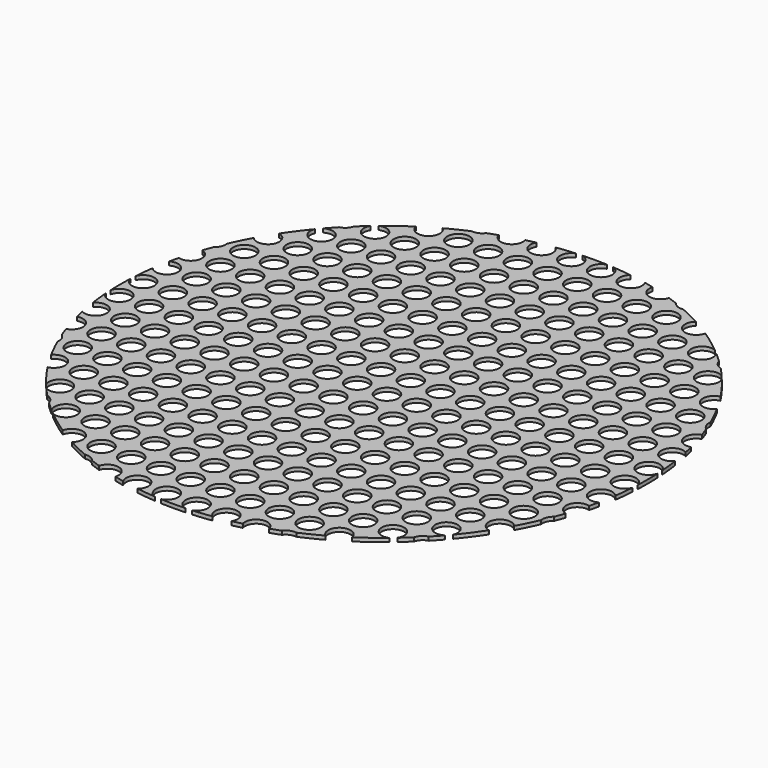
from build123d import *

# Parameters (mm, degrees)
F0_R     = 71
F1_DEPTH = 1
F2_R     = 3
F3_DEPTH = 5


with BuildPart() as f1:
    # F0 (on Top) → F1 (new body)
    with BuildSketch(Plane.XY):
        Circle(F0_R)
    extrude(amount=-F1_DEPTH)

    # F2 (on Top) → F3 (cut)
    with BuildSketch(Plane.XY):
        with BuildLine():
            ThreePointArc((71, 20), (68, 23), (65, 20))
            ThreePointArc((65, 20), (68, 17), (71, 20))
        make_face()
        with BuildLine():
            ThreePointArc((63, 20), (60, 23), (57, 20))
            Line((57, 20), (63, 20))
        make_face()
        with BuildLine():
            Line((63, 20), (57, 20))
            ThreePointArc((57, 20), (60, 17), (63, 20))
        make_face()
        with BuildLine():
            ThreePointArc((55, 20), (52, 23), (49, 20))
            Line((49, 20), (55, 20))
        make_face()
        with BuildLine():
            Line((55, 20), (49, 20))
            ThreePointArc((49, 20), (52, 17), (55, 20))
        make_face()
        with BuildLine():
            ThreePointArc((47, 20), (44, 23), (41, 20))
            Line((41, 20), (47, 20))
        make_face()
        with BuildLine():
            Line((47, 20), (41, 20))
            ThreePointArc((41, 20), (44, 17), (47, 20))
        make_face()
        with BuildLine():
            ThreePointArc((39, 20), (36, 23), (33, 20))
            Line((33, 20), (39, 20))
        make_face()
        with BuildLine():
            Line((39, 20), (33, 20))
            ThreePointArc((33, 20), (36, 17), (39, 20))
        make_face()
        with BuildLine():
            ThreePointArc((31, 20), (28, 23), (25, 20))
            Line((25, 20), (31, 20))
        make_face()
        with BuildLine():
            Line((31, 20), (25, 20))
            ThreePointArc((25, 20), (28, 17), (31, 20))
        make_face()
        with BuildLine():
            ThreePointArc((23, 20), (20, 23), (17, 20))
            Line((17, 20), (23, 20))
        make_face()
        with BuildLine():
            Line((23, 20), (17, 20))
            ThreePointArc((17, 20), (20, 17), (23, 20))
        make_face()
        with BuildLine():
            ThreePointArc((15, 20), (12, 23), (9, 20))
            Line((9, 20), (15, 20))
        make_face()
        with BuildLine():
            Line((15, 20), (9, 20))
            ThreePointArc((9, 20), (12, 17), (15, 20))
        make_face()
        with BuildLine():
            ThreePointArc((7, 20), (4, 23), (1, 20))
            Line((1, 20), (7, 20))
        make_face()
        with BuildLine():
            Line((7, 20), (1, 20))
            ThreePointArc((1, 20), (4, 17), (7, 20))
        make_face()
        with BuildLine():
            ThreePointArc((-1, 20), (-4, 23), (-7, 20))
            Line((-7, 20), (-1, 20))
        make_face()
        with BuildLine():
            Line((-1, 20), (-7, 20))
            ThreePointArc((-7, 20), (-4, 17), (-1, 20))
        make_face()
        with BuildLine():
            ThreePointArc((-9, 20), (-12, 23), (-15, 20))
            Line((-15, 20), (-9, 20))
        make_face()
        with BuildLine():
            Line((-9, 20), (-15, 20))
            ThreePointArc((-15, 20), (-12, 17), (-9, 20))
        make_face()
        with BuildLine():
            ThreePointArc((-17, 20), (-20, 23), (-23, 20))
            Line((-23, 20), (-17, 20))
        make_face()
        with BuildLine():
            Line((-17, 20), (-23, 20))
            ThreePointArc((-23, 20), (-20, 17), (-17, 20))
        make_face()
        with BuildLine():
            ThreePointArc((-25, 20), (-28, 23), (-31, 20))
            Line((-31, 20), (-25, 20))
        make_face()
        with BuildLine():
            Line((-25, 20), (-31, 20))
            ThreePointArc((-31, 20), (-28, 17), (-25, 20))
        make_face()
        with BuildLine():
            ThreePointArc((-33, 20), (-36, 23), (-39, 20))
            Line((-39, 20), (-33, 20))
        make_face()
        with BuildLine():
            Line((-33, 20), (-39, 20))
            ThreePointArc((-39, 20), (-36, 17), (-33, 20))
        make_face()
        with BuildLine():
            ThreePointArc((-41, 20), (-44, 23), (-47, 20))
            Line((-47, 20), (-41, 20))
        make_face()
        with BuildLine():
            Line((-41, 20), (-47, 20))
            ThreePointArc((-47, 20), (-44, 17), (-41, 20))
        make_face()
        with BuildLine():
            ThreePointArc((-49, 20), (-52, 23), (-55, 20))
            Line((-55, 20), (-49, 20))
        make_face()
        with BuildLine():
            Line((-49, 20), (-55, 20))
            ThreePointArc((-55, 20), (-52, 17), (-49, 20))
        make_face()
        with BuildLine():
            ThreePointArc((-57, 20), (-60, 23), (-63, 20))
            Line((-63, 20), (-57, 20))
        make_face()
        with BuildLine():
            Line((-57, 20), (-63, 20))
            ThreePointArc((-63, 20), (-60, 17), (-57, 20))
        make_face()
        with Locations((-68, 20)):
            Circle(F2_R)
        with Locations((-12, 4)):
            Circle(F2_R)
        with Locations((-28, 4)):
            Circle(F2_R)
        with Locations((-20, 4)):
            Circle(F2_R)
        with Locations((-36, 4)):
            Circle(F2_R)
        with Locations((-44, 4)):
            Circle(F2_R)
        with Locations((-52, 4)):
            Circle(F2_R)
        with Locations((-60, 4)):
            Circle(F2_R)
        with Locations((-68, 4)):
            Circle(F2_R)
        with Locations((-4, 4)):
            Circle(F2_R)
        with BuildLine():
            Line((-7, -4), (-1, -4))
            ThreePointArc((-1, -4), (-4, -1), (-7, -4))
        make_face()
        with Locations((-68, -4)):
            Circle(F2_R)
        with BuildLine():
            ThreePointArc((-63, -4), (-60, -7), (-57, -4))
            Line((-57, -4), (-63, -4))
        make_face()
        with BuildLine():
            Line((-63, -4), (-57, -4))
            ThreePointArc((-57, -4), (-60, -1), (-63, -4))
        make_face()
        with BuildLine():
            ThreePointArc((-55, -4), (-52, -7), (-49, -4))
            Line((-49, -4), (-55, -4))
        make_face()
        with BuildLine():
            Line((-55, -4), (-49, -4))
            ThreePointArc((-49, -4), (-52, -1), (-55, -4))
        make_face()
        with BuildLine():
            ThreePointArc((-47, -4), (-44, -7), (-41, -4))
            Line((-41, -4), (-47, -4))
        make_face()
        with BuildLine():
            Line((-47, -4), (-41, -4))
            ThreePointArc((-41, -4), (-44, -1), (-47, -4))
        make_face()
        with BuildLine():
            ThreePointArc((-39, -4), (-36, -7), (-33, -4))
            Line((-33, -4), (-39, -4))
        make_face()
        with BuildLine():
            Line((-39, -4), (-33, -4))
            ThreePointArc((-33, -4), (-36, -1), (-39, -4))
        make_face()
        with BuildLine():
            ThreePointArc((-31, -4), (-28, -7), (-25, -4))
            Line((-25, -4), (-31, -4))
        make_face()
        with BuildLine():
            Line((-31, -4), (-25, -4))
            ThreePointArc((-25, -4), (-28, -1), (-31, -4))
        make_face()
        with BuildLine():
            ThreePointArc((-23, -4), (-20, -7), (-17, -4))
            Line((-17, -4), (-23, -4))
        make_face()
        with BuildLine():
            Line((-23, -4), (-17, -4))
            ThreePointArc((-17, -4), (-20, -1), (-23, -4))
        make_face()
        with BuildLine():
            ThreePointArc((-15, -4), (-12, -7), (-9, -4))
            Line((-9, -4), (-15, -4))
        make_face()
        with BuildLine():
            Line((-15, -4), (-9, -4))
            ThreePointArc((-9, -4), (-12, -1), (-15, -4))
        make_face()
        with BuildLine():
            ThreePointArc((71, -4), (68, -1), (65, -4))
            ThreePointArc((65, -4), (68, -7), (71, -4))
        make_face()
        with BuildLine():
            ThreePointArc((63, -4), (60, -1), (57, -4))
            Line((57, -4), (63, -4))
        make_face()
        with BuildLine():
            Line((63, -4), (57, -4))
            ThreePointArc((57, -4), (60, -7), (63, -4))
        make_face()
        with BuildLine():
            ThreePointArc((55, -4), (52, -1), (49, -4))
            Line((49, -4), (55, -4))
        make_face()
        with BuildLine():
            Line((55, -4), (49, -4))
            ThreePointArc((49, -4), (52, -7), (55, -4))
        make_face()
        with BuildLine():
            ThreePointArc((47, -4), (44, -1), (41, -4))
            Line((41, -4), (47, -4))
        make_face()
        with BuildLine():
            Line((47, -4), (41, -4))
            ThreePointArc((41, -4), (44, -7), (47, -4))
        make_face()
        with BuildLine():
            ThreePointArc((39, -4), (36, -1), (33, -4))
            Line((33, -4), (39, -4))
        make_face()
        with BuildLine():
            Line((39, -4), (33, -4))
            ThreePointArc((33, -4), (36, -7), (39, -4))
        make_face()
        with BuildLine():
            ThreePointArc((31, -4), (28, -1), (25, -4))
            Line((25, -4), (31, -4))
        make_face()
        with BuildLine():
            Line((31, -4), (25, -4))
            ThreePointArc((25, -4), (28, -7), (31, -4))
        make_face()
        with BuildLine():
            ThreePointArc((23, -4), (20, -1), (17, -4))
            Line((17, -4), (23, -4))
        make_face()
        with BuildLine():
            Line((23, -4), (17, -4))
            ThreePointArc((17, -4), (20, -7), (23, -4))
        make_face()
        with BuildLine():
            ThreePointArc((15, -4), (12, -1), (9, -4))
            Line((9, -4), (15, -4))
        make_face()
        with BuildLine():
            Line((15, -4), (9, -4))
            ThreePointArc((9, -4), (12, -7), (15, -4))
        make_face()
        with BuildLine():
            ThreePointArc((7, -4), (4, -1), (1, -4))
            Line((1, -4), (7, -4))
        make_face()
        with BuildLine():
            Line((7, -4), (1, -4))
            ThreePointArc((1, -4), (4, -7), (7, -4))
        make_face()
        with BuildLine():
            ThreePointArc((-7, -4), (-4, -7), (-1, -4))
            Line((-1, -4), (-7, -4))
        make_face()
        with Locations((-4, 28)):
            Circle(F2_R)
        with Locations((-12, 28)):
            Circle(F2_R)
        with Locations((-20, 28)):
            Circle(F2_R)
        with Locations((-28, 28)):
            Circle(F2_R)
        with Locations((-36, 28)):
            Circle(F2_R)
        with Locations((-44, 28)):
            Circle(F2_R)
        with Locations((-52, 28)):
            Circle(F2_R)
        with Locations((-4, 12)):
            Circle(F2_R)
        with Locations((-12, 12)):
            Circle(F2_R)
        with Locations((-20, 12)):
            Circle(F2_R)
        with Locations((-28, 12)):
            Circle(F2_R)
        with Locations((-36, 12)):
            Circle(F2_R)
        with Locations((-44, 12)):
            Circle(F2_R)
        with Locations((-52, 12)):
            Circle(F2_R)
        with Locations((-60, 12)):
            Circle(F2_R)
        with Locations((-68, 12)):
            Circle(F2_R)
        with Locations((-68, 28)):
            Circle(F2_R)
        with Locations((-60, 28)):
            Circle(F2_R)
        with Locations((-52, 44)):
            Circle(F2_R)
        with Locations((-36, 44)):
            Circle(F2_R)
        with Locations((-52, 36)):
            Circle(F2_R)
        with Locations((-44, 36)):
            Circle(F2_R)
        with Locations((-44, 44)):
            Circle(F2_R)
        with Locations((-28, 44)):
            Circle(F2_R)
        with Locations((-60, 36)):
            Circle(F2_R)
        with Locations((-36, 36)):
            Circle(F2_R)
        with Locations((-28, 36)):
            Circle(F2_R)
        with Locations((-20, 36)):
            Circle(F2_R)
        with Locations((-68, 44)):
            Circle(F2_R)
        with Locations((-4, 36)):
            Circle(F2_R)
        with Locations((-60, 44)):
            Circle(F2_R)
        with Locations((-12, 36)):
            Circle(F2_R)
        with Locations((-4, 44)):
            Circle(F2_R)
        with Locations((-12, 44)):
            Circle(F2_R)
        with Locations((-20, 44)):
            Circle(F2_R)
        with Locations((-68, 36)):
            Circle(F2_R)
        with Locations((-4, 60)):
            Circle(F2_R)
        with Locations((-68, 60)):
            Circle(F2_R)
        with Locations((-52, 60)):
            Circle(F2_R)
        with Locations((-44, 60)):
            Circle(F2_R)
        with Locations((-36, 60)):
            Circle(F2_R)
        with Locations((-20, 60)):
            Circle(F2_R)
        with Locations((-60, 60)):
            Circle(F2_R)
        with Locations((-28, 60)):
            Circle(F2_R)
        with Locations((-12, 60)):
            Circle(F2_R)
        with Locations((-36, 52)):
            Circle(F2_R)
        with Locations((-68, 52)):
            Circle(F2_R)
        with Locations((-44, 68)):
            Circle(F2_R)
        with Locations((-52, 52)):
            Circle(F2_R)
        with Locations((-4, 52)):
            Circle(F2_R)
        with Locations((-12, 68)):
            Circle(F2_R)
        with Locations((-12, 52)):
            Circle(F2_R)
        with Locations((-4, 68)):
            Circle(F2_R)
        with Locations((-60, 52)):
            Circle(F2_R)
        with Locations((-60, 68)):
            Circle(F2_R)
        with Locations((-52, 68)):
            Circle(F2_R)
        with Locations((-28, 52)):
            Circle(F2_R)
        with Locations((-28, 68)):
            Circle(F2_R)
        with Locations((-68, 68)):
            Circle(F2_R)
        with Locations((-36, 68)):
            Circle(F2_R)
        with Locations((-44, 52)):
            Circle(F2_R)
        with Locations((-20, 68)):
            Circle(F2_R)
        with Locations((-20, 52)):
            Circle(F2_R)
        with Locations((52, 44)):
            Circle(F2_R)
        with Locations((44, 28)):
            Circle(F2_R)
        with Locations((68, 28)):
            Circle(F2_R)
        with Locations((52, 28)):
            Circle(F2_R)
        with Locations((68, 60)):
            Circle(F2_R)
        with Locations((36, 28)):
            Circle(F2_R)
        with Locations((4, 60)):
            Circle(F2_R)
        with Locations((60, 28)):
            Circle(F2_R)
        with Locations((36, 60)):
            Circle(F2_R)
        with Locations((28, 28)):
            Circle(F2_R)
        with Locations((52, 60)):
            Circle(F2_R)
        with Locations((12, 60)):
            Circle(F2_R)
        with Locations((4, 28)):
            Circle(F2_R)
        with Locations((60, 60)):
            Circle(F2_R)
        with Locations((44, 60)):
            Circle(F2_R)
        with Locations((12, 28)):
            Circle(F2_R)
        with Locations((28, 60)):
            Circle(F2_R)
        with Locations((20, 28)):
            Circle(F2_R)
        with Locations((20, 60)):
            Circle(F2_R)
        with Locations((52, 52)):
            Circle(F2_R)
        with Locations((36, 68)):
            Circle(F2_R)
        with Locations((68, 12)):
            Circle(F2_R)
        with Locations((36, 36)):
            Circle(F2_R)
        with Locations((68, 36)):
            Circle(F2_R)
        with Locations((44, 68)):
            Circle(F2_R)
        with Locations((68, 68)):
            Circle(F2_R)
        with Locations((60, 36)):
            Circle(F2_R)
        with Locations((68, 52)):
            Circle(F2_R)
        with Locations((44, 52)):
            Circle(F2_R)
        with Locations((4, 52)):
            Circle(F2_R)
        with Locations((60, 4)):
            Circle(F2_R)
        with Locations((4, 44)):
            Circle(F2_R)
        with Locations((44, 36)):
            Circle(F2_R)
        with Locations((36, 12)):
            Circle(F2_R)
        with Locations((60, 68)):
            Circle(F2_R)
        with Locations((52, 12)):
            Circle(F2_R)
        with Locations((4, 4)):
            Circle(F2_R)
        with Locations((28, 52)):
            Circle(F2_R)
        with Locations((12, 44)):
            Circle(F2_R)
        with Locations((20, 68)):
            Circle(F2_R)
        with Locations((28, 44)):
            Circle(F2_R)
        with Locations((12, 36)):
            Circle(F2_R)
        with Locations((52, 4)):
            Circle(F2_R)
        with Locations((28, 68)):
            Circle(F2_R)
        with Locations((4, 68)):
            Circle(F2_R)
        with Locations((36, 4)):
            Circle(F2_R)
        with Locations((12, 12)):
            Circle(F2_R)
        with Locations((52, 36)):
            Circle(F2_R)
        with Locations((60, 52)):
            Circle(F2_R)
        with Locations((4, 36)):
            Circle(F2_R)
        with Locations((28, 12)):
            Circle(F2_R)
        with Locations((28, 36)):
            Circle(F2_R)
        with Locations((44, 12)):
            Circle(F2_R)
        with Locations((20, 52)):
            Circle(F2_R)
        with Locations((60, 44)):
            Circle(F2_R)
        with Locations((20, 4)):
            Circle(F2_R)
        with Locations((36, 44)):
            Circle(F2_R)
        with Locations((44, 44)):
            Circle(F2_R)
        with Locations((68, 4)):
            Circle(F2_R)
        with Locations((20, 44)):
            Circle(F2_R)
        with Locations((4, 12)):
            Circle(F2_R)
        with Locations((68, 44)):
            Circle(F2_R)
        with Locations((12, 4)):
            Circle(F2_R)
        with Locations((28, 4)):
            Circle(F2_R)
        with Locations((60, 12)):
            Circle(F2_R)
        with Locations((36, 52)):
            Circle(F2_R)
        with Locations((52, 68)):
            Circle(F2_R)
        with Locations((20, 12)):
            Circle(F2_R)
        with Locations((20, 36)):
            Circle(F2_R)
        with Locations((44, 4)):
            Circle(F2_R)
        with Locations((12, 52)):
            Circle(F2_R)
        with Locations((12, 68)):
            Circle(F2_R)
        with Locations((-52, -52)):
            Circle(F2_R)
        with Locations((52, -52)):
            Circle(F2_R)
        with Locations((-68, -68)):
            Circle(F2_R)
        with Locations((4, -68)):
            Circle(F2_R)
        with Locations((36, -36)):
            Circle(F2_R)
        with Locations((20, -36)):
            Circle(F2_R)
        with Locations((-28, -36)):
            Circle(F2_R)
        with Locations((-12, -68)):
            Circle(F2_R)
        with Locations((-20, -36)):
            Circle(F2_R)
        with Locations((52, -68)):
            Circle(F2_R)
        with Locations((-20, -68)):
            Circle(F2_R)
        with Locations((-12, -36)):
            Circle(F2_R)
        with Locations((60, -36)):
            Circle(F2_R)
        with Locations((28, -68)):
            Circle(F2_R)
        with Locations((-52, -68)):
            Circle(F2_R)
        with Locations((-44, -36)):
            Circle(F2_R)
        with Locations((36, -68)):
            Circle(F2_R)
        with Locations((-36, -36)):
            Circle(F2_R)
        with Locations((52, -36)):
            Circle(F2_R)
        with Locations((44, -36)):
            Circle(F2_R)
        with Locations((28, -36)):
            Circle(F2_R)
        with Locations((44, -68)):
            Circle(F2_R)
        with Locations((-4, -68)):
            Circle(F2_R)
        with Locations((-4, -36)):
            Circle(F2_R)
        with Locations((-68, -36)):
            Circle(F2_R)
        with Locations((-52, -36)):
            Circle(F2_R)
        with Locations((12, -68)):
            Circle(F2_R)
        with Locations((-60, -36)):
            Circle(F2_R)
        with Locations((-36, -68)):
            Circle(F2_R)
        with Locations((4, -36)):
            Circle(F2_R)
        with Locations((12, -36)):
            Circle(F2_R)
        with Locations((-60, -68)):
            Circle(F2_R)
        with Locations((68, -68)):
            Circle(F2_R)
        with Locations((68, -36)):
            Circle(F2_R)
        with Locations((-44, -68)):
            Circle(F2_R)
        with Locations((-28, -68)):
            Circle(F2_R)
        with Locations((20, -68)):
            Circle(F2_R)
        with Locations((60, -68)):
            Circle(F2_R)
        with BuildLine():
            Line((-55, -20), (-49, -20))
            ThreePointArc((-49, -20), (-52, -17), (-55, -20))
        make_face()
        with Locations((-68, -20)):
            Circle(F2_R)
        with BuildLine():
            ThreePointArc((-63, -20), (-60, -23), (-57, -20))
            Line((-57, -20), (-63, -20))
        make_face()
        with BuildLine():
            Line((-63, -20), (-57, -20))
            ThreePointArc((-57, -20), (-60, -17), (-63, -20))
        make_face()
        with BuildLine():
            ThreePointArc((-55, -20), (-52, -23), (-49, -20))
            Line((-49, -20), (-55, -20))
        make_face()
        with BuildLine():
            ThreePointArc((71, -20), (68, -17), (65, -20))
            ThreePointArc((65, -20), (68, -23), (71, -20))
        make_face()
        with BuildLine():
            ThreePointArc((63, -20), (60, -17), (57, -20))
            Line((57, -20), (63, -20))
        make_face()
        with BuildLine():
            Line((63, -20), (57, -20))
            ThreePointArc((57, -20), (60, -23), (63, -20))
        make_face()
        with BuildLine():
            ThreePointArc((55, -20), (52, -17), (49, -20))
            Line((49, -20), (55, -20))
        make_face()
        with BuildLine():
            Line((55, -20), (49, -20))
            ThreePointArc((49, -20), (52, -23), (55, -20))
        make_face()
        with BuildLine():
            ThreePointArc((47, -20), (44, -17), (41, -20))
            Line((41, -20), (47, -20))
        make_face()
        with BuildLine():
            Line((47, -20), (41, -20))
            ThreePointArc((41, -20), (44, -23), (47, -20))
        make_face()
        with BuildLine():
            ThreePointArc((39, -20), (36, -17), (33, -20))
            Line((33, -20), (39, -20))
        make_face()
        with BuildLine():
            Line((39, -20), (33, -20))
            ThreePointArc((33, -20), (36, -23), (39, -20))
        make_face()
        with BuildLine():
            ThreePointArc((31, -20), (28, -17), (25, -20))
            Line((25, -20), (31, -20))
        make_face()
        with BuildLine():
            Line((31, -20), (25, -20))
            ThreePointArc((25, -20), (28, -23), (31, -20))
        make_face()
        with BuildLine():
            ThreePointArc((23, -20), (20, -17), (17, -20))
            Line((17, -20), (23, -20))
        make_face()
        with BuildLine():
            Line((23, -20), (17, -20))
            ThreePointArc((17, -20), (20, -23), (23, -20))
        make_face()
        with BuildLine():
            ThreePointArc((15, -20), (12, -17), (9, -20))
            Line((9, -20), (15, -20))
        make_face()
        with BuildLine():
            Line((15, -20), (9, -20))
            ThreePointArc((9, -20), (12, -23), (15, -20))
        make_face()
        with BuildLine():
            ThreePointArc((7, -20), (4, -17), (1, -20))
            Line((1, -20), (7, -20))
        make_face()
        with BuildLine():
            Line((7, -20), (1, -20))
            ThreePointArc((1, -20), (4, -23), (7, -20))
        make_face()
        with BuildLine():
            ThreePointArc((-1, -20), (-4, -17), (-7, -20))
            Line((-7, -20), (-1, -20))
        make_face()
        with BuildLine():
            Line((-1, -20), (-7, -20))
            ThreePointArc((-7, -20), (-4, -23), (-1, -20))
        make_face()
        with BuildLine():
            ThreePointArc((-9, -20), (-12, -17), (-15, -20))
            Line((-15, -20), (-9, -20))
        make_face()
        with BuildLine():
            Line((-9, -20), (-15, -20))
            ThreePointArc((-15, -20), (-12, -23), (-9, -20))
        make_face()
        with BuildLine():
            ThreePointArc((-17, -20), (-20, -17), (-23, -20))
            Line((-23, -20), (-17, -20))
        make_face()
        with BuildLine():
            Line((-17, -20), (-23, -20))
            ThreePointArc((-23, -20), (-20, -23), (-17, -20))
        make_face()
        with BuildLine():
            ThreePointArc((-25, -20), (-28, -17), (-31, -20))
            Line((-31, -20), (-25, -20))
        make_face()
        with BuildLine():
            Line((-25, -20), (-31, -20))
            ThreePointArc((-31, -20), (-28, -23), (-25, -20))
        make_face()
        with BuildLine():
            ThreePointArc((-33, -20), (-36, -17), (-39, -20))
            Line((-39, -20), (-33, -20))
        make_face()
        with BuildLine():
            Line((-33, -20), (-39, -20))
            ThreePointArc((-39, -20), (-36, -23), (-33, -20))
        make_face()
        with BuildLine():
            ThreePointArc((-41, -20), (-44, -17), (-47, -20))
            Line((-47, -20), (-41, -20))
        make_face()
        with BuildLine():
            Line((-41, -20), (-47, -20))
            ThreePointArc((-47, -20), (-44, -23), (-41, -20))
        make_face()
        with BuildLine():
            Line((-31, -28), (-25, -28))
            ThreePointArc((-25, -28), (-28, -25), (-31, -28))
        make_face()
        with Locations((-68, -28)):
            Circle(F2_R)
        with BuildLine():
            ThreePointArc((-63, -28), (-60, -31), (-57, -28))
            Line((-57, -28), (-63, -28))
        make_face()
        with BuildLine():
            Line((-63, -28), (-57, -28))
            ThreePointArc((-57, -28), (-60, -25), (-63, -28))
        make_face()
        with BuildLine():
            ThreePointArc((-55, -28), (-52, -31), (-49, -28))
            Line((-49, -28), (-55, -28))
        make_face()
        with BuildLine():
            Line((-55, -28), (-49, -28))
            ThreePointArc((-49, -28), (-52, -25), (-55, -28))
        make_face()
        with BuildLine():
            ThreePointArc((-47, -28), (-44, -31), (-41, -28))
            Line((-41, -28), (-47, -28))
        make_face()
        with BuildLine():
            Line((-47, -28), (-41, -28))
            ThreePointArc((-41, -28), (-44, -25), (-47, -28))
        make_face()
        with BuildLine():
            ThreePointArc((-39, -28), (-36, -31), (-33, -28))
            Line((-33, -28), (-39, -28))
        make_face()
        with BuildLine():
            Line((-39, -28), (-33, -28))
            ThreePointArc((-33, -28), (-36, -25), (-39, -28))
        make_face()
        with BuildLine():
            ThreePointArc((-31, -28), (-28, -31), (-25, -28))
            Line((-25, -28), (-31, -28))
        make_face()
        with BuildLine():
            ThreePointArc((71, -28), (68, -25), (65, -28))
            ThreePointArc((65, -28), (68, -31), (71, -28))
        make_face()
        with BuildLine():
            ThreePointArc((63, -28), (60, -25), (57, -28))
            Line((57, -28), (63, -28))
        make_face()
        with BuildLine():
            Line((63, -28), (57, -28))
            ThreePointArc((57, -28), (60, -31), (63, -28))
        make_face()
        with BuildLine():
            ThreePointArc((55, -28), (52, -25), (49, -28))
            Line((49, -28), (55, -28))
        make_face()
        with BuildLine():
            Line((55, -28), (49, -28))
            ThreePointArc((49, -28), (52, -31), (55, -28))
        make_face()
        with BuildLine():
            ThreePointArc((47, -28), (44, -25), (41, -28))
            Line((41, -28), (47, -28))
        make_face()
        with BuildLine():
            Line((47, -28), (41, -28))
            ThreePointArc((41, -28), (44, -31), (47, -28))
        make_face()
        with BuildLine():
            ThreePointArc((39, -28), (36, -25), (33, -28))
            Line((33, -28), (39, -28))
        make_face()
        with BuildLine():
            Line((39, -28), (33, -28))
            ThreePointArc((33, -28), (36, -31), (39, -28))
        make_face()
        with BuildLine():
            ThreePointArc((31, -28), (28, -25), (25, -28))
            Line((25, -28), (31, -28))
        make_face()
        with BuildLine():
            Line((31, -28), (25, -28))
            ThreePointArc((25, -28), (28, -31), (31, -28))
        make_face()
        with BuildLine():
            ThreePointArc((23, -28), (20, -25), (17, -28))
            Line((17, -28), (23, -28))
        make_face()
        with BuildLine():
            Line((23, -28), (17, -28))
            ThreePointArc((17, -28), (20, -31), (23, -28))
        make_face()
        with BuildLine():
            ThreePointArc((15, -28), (12, -25), (9, -28))
            Line((9, -28), (15, -28))
        make_face()
        with BuildLine():
            Line((15, -28), (9, -28))
            ThreePointArc((9, -28), (12, -31), (15, -28))
        make_face()
        with BuildLine():
            ThreePointArc((7, -28), (4, -25), (1, -28))
            Line((1, -28), (7, -28))
        make_face()
        with BuildLine():
            Line((7, -28), (1, -28))
            ThreePointArc((1, -28), (4, -31), (7, -28))
        make_face()
        with BuildLine():
            ThreePointArc((-1, -28), (-4, -25), (-7, -28))
            Line((-7, -28), (-1, -28))
        make_face()
        with BuildLine():
            Line((-1, -28), (-7, -28))
            ThreePointArc((-7, -28), (-4, -31), (-1, -28))
        make_face()
        with BuildLine():
            ThreePointArc((-9, -28), (-12, -25), (-15, -28))
            Line((-15, -28), (-9, -28))
        make_face()
        with BuildLine():
            Line((-9, -28), (-15, -28))
            ThreePointArc((-15, -28), (-12, -31), (-9, -28))
        make_face()
        with BuildLine():
            ThreePointArc((-17, -28), (-20, -25), (-23, -28))
            Line((-23, -28), (-17, -28))
        make_face()
        with BuildLine():
            Line((-17, -28), (-23, -28))
            ThreePointArc((-23, -28), (-20, -31), (-17, -28))
        make_face()
        with Locations((-28, -60)):
            Circle(F2_R)
        with Locations((-12, -52)):
            Circle(F2_R)
        with Locations((-28, -52)):
            Circle(F2_R)
        with Locations((68, -60)):
            Circle(F2_R)
        with Locations((52, -76)):
            Circle(F2_R)
        with Locations((-28, -76)):
            Circle(F2_R)
        with Locations((12, -52)):
            Circle(F2_R)
        with Locations((52, -60)):
            Circle(F2_R)
        with Locations((60, -60)):
            Circle(F2_R)
        with Locations((-36, -60)):
            Circle(F2_R)
        with Locations((-20, -52)):
            Circle(F2_R)
        with Locations((20, -76)):
            Circle(F2_R)
        with Locations((36, -76)):
            Circle(F2_R)
        with Locations((36, -52)):
            Circle(F2_R)
        with Locations((4, -44)):
            Circle(F2_R)
        with Locations((-68, -60)):
            Circle(F2_R)
        with Locations((-60, -44)):
            Circle(F2_R)
        with Locations((28, -52)):
            Circle(F2_R)
        with Locations((44, -60)):
            Circle(F2_R)
        with Locations((44, -52)):
            Circle(F2_R)
        with Locations((4, -60)):
            Circle(F2_R)
        with Locations((20, -44)):
            Circle(F2_R)
        with Locations((-68, -76)):
            Circle(F2_R)
        with Locations((-44, -76)):
            Circle(F2_R)
        with Locations((-68, -44)):
            Circle(F2_R)
        with Locations((-36, -44)):
            Circle(F2_R)
        with Locations((-36, -76)):
            Circle(F2_R)
        with Locations((-52, -60)):
            Circle(F2_R)
        with Locations((12, -44)):
            Circle(F2_R)
        with Locations((-44, -60)):
            Circle(F2_R)
        with Locations((-4, -60)):
            Circle(F2_R)
        with Locations((36, -44)):
            Circle(F2_R)
        with Locations((12, -60)):
            Circle(F2_R)
        with Locations((20, -52)):
            Circle(F2_R)
        with Locations((-20, -76)):
            Circle(F2_R)
        with Locations((4, -52)):
            Circle(F2_R)
        with Locations((68, -44)):
            Circle(F2_R)
        with Locations((12, -76)):
            Circle(F2_R)
        with Locations((28, -44)):
            Circle(F2_R)
        with Locations((60, -76)):
            Circle(F2_R)
        with Locations((-4, -76)):
            Circle(F2_R)
        with Locations((-36, -52)):
            Circle(F2_R)
        with Locations((-68, -52)):
            Circle(F2_R)
        with Locations((-4, -44)):
            Circle(F2_R)
        with Locations((-44, -52)):
            Circle(F2_R)
        with Locations((-52, -44)):
            Circle(F2_R)
        with Locations((60, -44)):
            Circle(F2_R)
        with Locations((-60, -60)):
            Circle(F2_R)
        with Locations((-52, -76)):
            Circle(F2_R)
        with Locations((52, -44)):
            Circle(F2_R)
        with Locations((68, -76)):
            Circle(F2_R)
        with Locations((4, -76)):
            Circle(F2_R)
        with Locations((-20, -44)):
            Circle(F2_R)
        with Locations((-20, -60)):
            Circle(F2_R)
        with Locations((-12, -76)):
            Circle(F2_R)
        with Locations((-60, -52)):
            Circle(F2_R)
        with Locations((20, -60)):
            Circle(F2_R)
        with Locations((44, -44)):
            Circle(F2_R)
        with Locations((-28, -44)):
            Circle(F2_R)
        with Locations((28, -76)):
            Circle(F2_R)
        with Locations((-4, -52)):
            Circle(F2_R)
        with Locations((60, -52)):
            Circle(F2_R)
        with Locations((-12, -44)):
            Circle(F2_R)
        with Locations((-12, -60)):
            Circle(F2_R)
        with Locations((68, -52)):
            Circle(F2_R)
        with Locations((36, -60)):
            Circle(F2_R)
        with Locations((-60, -76)):
            Circle(F2_R)
        with Locations((28, -60)):
            Circle(F2_R)
        with Locations((-44, -44)):
            Circle(F2_R)
        with Locations((44, -76)):
            Circle(F2_R)
        with BuildLine():
            ThreePointArc((71, -12), (68, -9), (65, -12))
            ThreePointArc((65, -12), (68, -15), (71, -12))
        make_face()
        with BuildLine():
            ThreePointArc((63, -12), (60, -9), (57, -12))
            Line((57, -12), (63, -12))
        make_face()
        with BuildLine():
            Line((63, -12), (57, -12))
            ThreePointArc((57, -12), (60, -15), (63, -12))
        make_face()
        with BuildLine():
            ThreePointArc((55, -12), (52, -9), (49, -12))
            Line((49, -12), (55, -12))
        make_face()
        with BuildLine():
            Line((55, -12), (49, -12))
            ThreePointArc((49, -12), (52, -15), (55, -12))
        make_face()
        with BuildLine():
            ThreePointArc((47, -12), (44, -9), (41, -12))
            Line((41, -12), (47, -12))
        make_face()
        with BuildLine():
            Line((47, -12), (41, -12))
            ThreePointArc((41, -12), (44, -15), (47, -12))
        make_face()
        with BuildLine():
            ThreePointArc((39, -12), (36, -9), (33, -12))
            Line((33, -12), (39, -12))
        make_face()
        with BuildLine():
            Line((39, -12), (33, -12))
            ThreePointArc((33, -12), (36, -15), (39, -12))
        make_face()
        with BuildLine():
            ThreePointArc((31, -12), (28, -9), (25, -12))
            Line((25, -12), (31, -12))
        make_face()
        with BuildLine():
            Line((31, -12), (25, -12))
            ThreePointArc((25, -12), (28, -15), (31, -12))
        make_face()
        with BuildLine():
            ThreePointArc((23, -12), (20, -9), (17, -12))
            Line((17, -12), (23, -12))
        make_face()
        with BuildLine():
            Line((23, -12), (17, -12))
            ThreePointArc((17, -12), (20, -15), (23, -12))
        make_face()
        with BuildLine():
            ThreePointArc((15, -12), (12, -9), (9, -12))
            Line((9, -12), (15, -12))
        make_face()
        with BuildLine():
            Line((15, -12), (9, -12))
            ThreePointArc((9, -12), (12, -15), (15, -12))
        make_face()
        with BuildLine():
            ThreePointArc((7, -12), (4, -9), (1, -12))
            Line((1, -12), (7, -12))
        make_face()
        with BuildLine():
            Line((7, -12), (1, -12))
            ThreePointArc((1, -12), (4, -15), (7, -12))
        make_face()
        with BuildLine():
            ThreePointArc((-1, -12), (-4, -9), (-7, -12))
            Line((-7, -12), (-1, -12))
        make_face()
        with BuildLine():
            Line((-1, -12), (-7, -12))
            ThreePointArc((-7, -12), (-4, -15), (-1, -12))
        make_face()
        with BuildLine():
            ThreePointArc((-9, -12), (-12, -9), (-15, -12))
            Line((-15, -12), (-9, -12))
        make_face()
        with BuildLine():
            Line((-9, -12), (-15, -12))
            ThreePointArc((-15, -12), (-12, -15), (-9, -12))
        make_face()
        with BuildLine():
            ThreePointArc((-17, -12), (-20, -9), (-23, -12))
            Line((-23, -12), (-17, -12))
        make_face()
        with BuildLine():
            Line((-17, -12), (-23, -12))
            ThreePointArc((-23, -12), (-20, -15), (-17, -12))
        make_face()
        with BuildLine():
            ThreePointArc((-25, -12), (-28, -9), (-31, -12))
            Line((-31, -12), (-25, -12))
        make_face()
        with BuildLine():
            Line((-25, -12), (-31, -12))
            ThreePointArc((-31, -12), (-28, -15), (-25, -12))
        make_face()
        with BuildLine():
            ThreePointArc((-33, -12), (-36, -9), (-39, -12))
            Line((-39, -12), (-33, -12))
        make_face()
        with BuildLine():
            Line((-33, -12), (-39, -12))
            ThreePointArc((-39, -12), (-36, -15), (-33, -12))
        make_face()
        with BuildLine():
            ThreePointArc((-41, -12), (-44, -9), (-47, -12))
            Line((-47, -12), (-41, -12))
        make_face()
        with BuildLine():
            Line((-41, -12), (-47, -12))
            ThreePointArc((-47, -12), (-44, -15), (-41, -12))
        make_face()
        with BuildLine():
            ThreePointArc((-49, -12), (-52, -9), (-55, -12))
            Line((-55, -12), (-49, -12))
        make_face()
        with BuildLine():
            Line((-49, -12), (-55, -12))
            ThreePointArc((-55, -12), (-52, -15), (-49, -12))
        make_face()
        with BuildLine():
            ThreePointArc((-57, -12), (-60, -9), (-63, -12))
            Line((-63, -12), (-57, -12))
        make_face()
        with BuildLine():
            Line((-57, -12), (-63, -12))
            ThreePointArc((-63, -12), (-60, -15), (-57, -12))
        make_face()
        with Locations((-68, -12)):
            Circle(F2_R)
    extrude(amount=-F3_DEPTH, mode=Mode.SUBTRACT)


solid = f1.part
